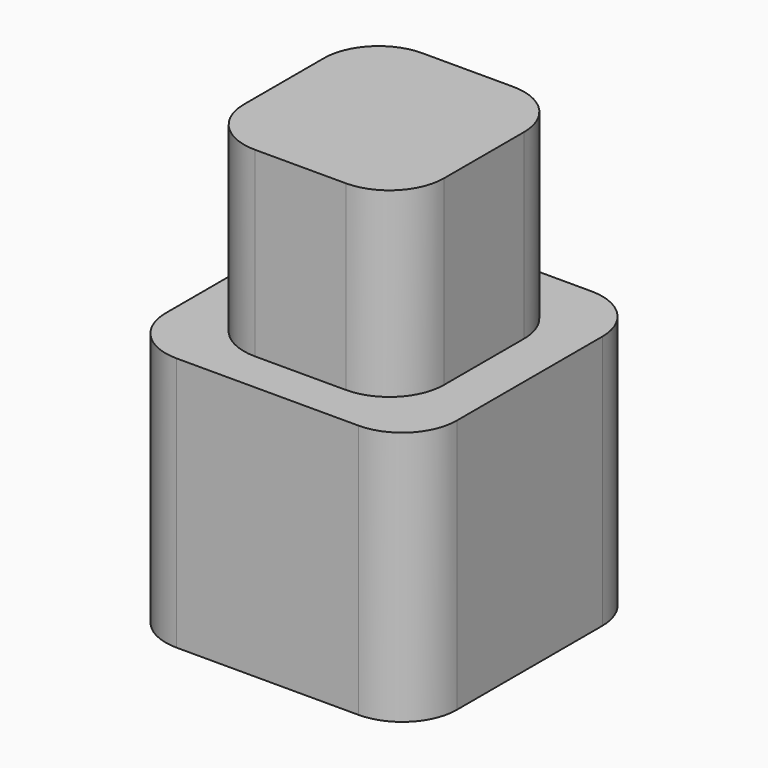
from build123d import *

# Parameters (mm, degrees)
F0_W     = 16
F0_H     = 16
F1_DEPTH = 14
F2_W     = 11
F2_H     = 11.5
F3_DEPTH = 10
F4_R     = 3


with BuildPart() as f1:
    # F0 (on Top) → F1 (new body)
    with BuildSketch(Plane.XY):
        Rectangle(F0_W, F0_H)
    extrude(amount=F1_DEPTH)

    # F2 (on face) → F3 (join)
    with BuildSketch(Plane.XY.offset(14)):
        Rectangle(F2_W, F2_H)
    extrude(amount=F3_DEPTH)

    # F4
    f4_edges = [f1.edges().sort_by_distance(p)[0] for p in [
        (5.5, -5.75, 19),
        (5.5, 5.75, 19),
        (-5.5, -5.75, 19),
        (-8, -8, 7),
        (8, -8, 7),
        (8, 8, 7),
        (-8, 8, 7),
        (-5.5, 5.75, 19),
    ]]
    fillet(f4_edges, radius=F4_R)


solid = f1.part
